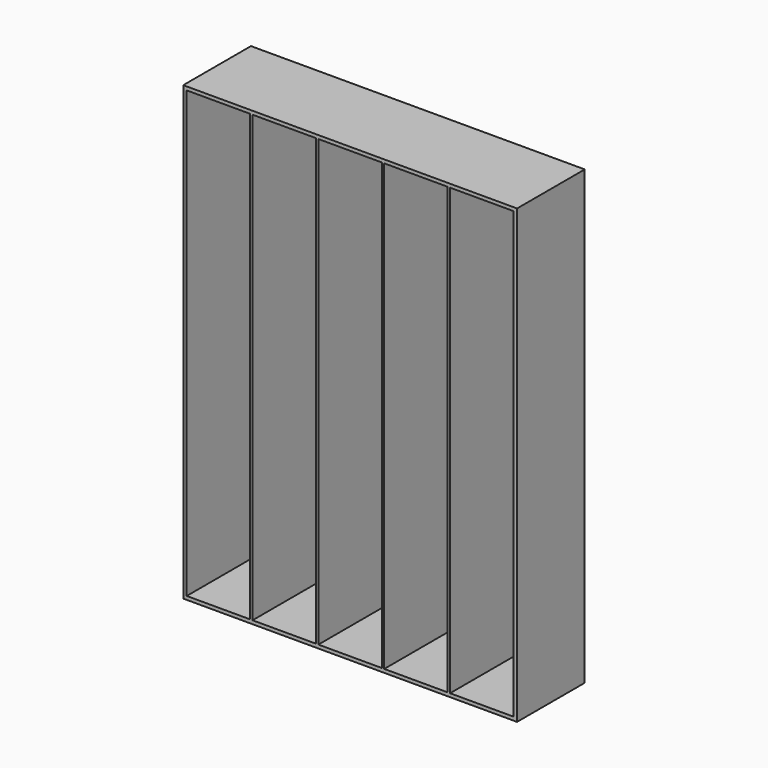
from build123d import *

# Parameters (mm, degrees)
F0_W     = 19.05
F0_H     = 2438.4
F0_W_2   = 12.7
F1_DEPTH = 457.2
F2_W     = 1828.8
F2_H     = 2476.5
F3_DEPTH = 6.35


with BuildPart() as f1:
    # F0 (on Front) → F1 (new body)
    with BuildSketch(Plane.XZ):
        with Locations((-1340.237705, 1.686236)):
            Rectangle(F0_W, F0_H)
        with Locations((469.512295, 1.686236)):
            Rectangle(F0_W, F0_H)
        Polygon((-982.732705, -1217.513764), (-1330.712705, -1217.513764), (-1349.762705, -1217.513764), (-1349.762705, -1236.563764), (479.037295, -1236.563764), (479.037295, -1217.513764), (459.987295, -1217.513764), (112.007295, -1217.513764), (99.307295, -1217.513764), (-248.672705, -1217.513764), (-261.372705, -1217.513764), (-609.352705, -1217.513764), (-622.052705, -1217.513764), (-970.032705, -1217.513764), align=None)
        Polygon((-1349.762705, 1220.886236), (-1330.712705, 1220.886236), (-982.732705, 1220.886236), (-970.032705, 1220.886236), (-622.052705, 1220.886236), (-609.352705, 1220.886236), (-261.372705, 1220.886236), (-248.672705, 1220.886236), (99.307295, 1220.886236), (112.007295, 1220.886236), (459.987295, 1220.886236), (479.037295, 1220.886236), (479.037295, 1239.936236), (-1349.762705, 1239.936236), align=None)
        with Locations((-976.382705, 1.686236)):
            Rectangle(F0_W_2, F0_H)
        with Locations((-615.702705, 1.686236)):
            Rectangle(F0_W_2, F0_H)
        with Locations((-255.022705, 1.686236)):
            Rectangle(F0_W_2, F0_H)
        with Locations((105.657295, 1.686236)):
            Rectangle(F0_W_2, F0_H)
    extrude(amount=F1_DEPTH)

    # F2 (on face) → F3 (join)
    with BuildSketch(Plane(origin=(0, 0, 0), x_dir=(-1, 0, 0), z_dir=(0, 1, 0))):
        with Locations((435.362705, 1.686236)):
            Rectangle(F2_W, F2_H)
    extrude(amount=F3_DEPTH)


solid = f1.part
